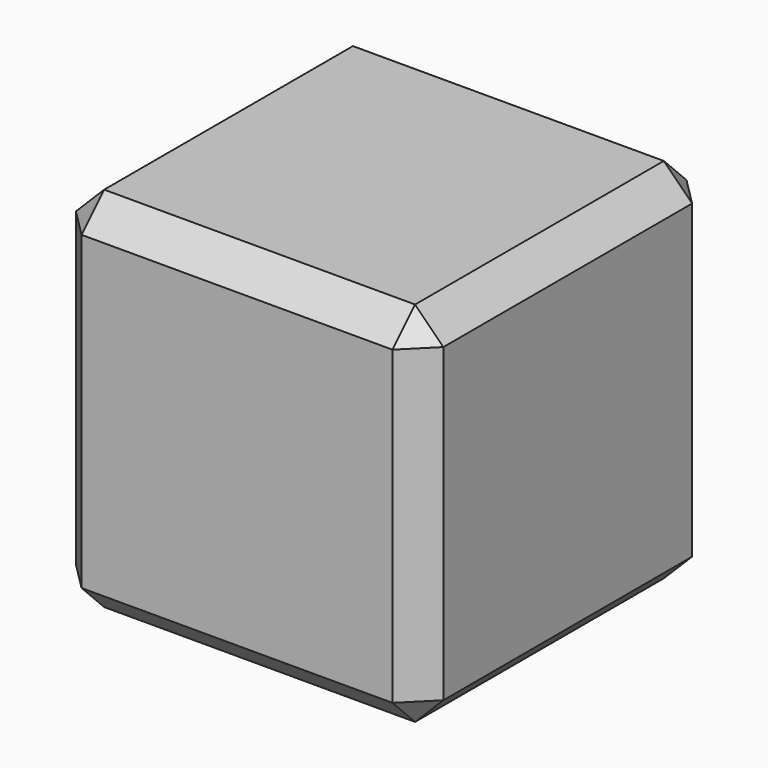
from build123d import *

# Parameters (mm, degrees)
F0_W      = 16.51
F0_H      = 16.51
F1_DEPTH  = 16.51
F2_SIZE   = 1.27
F3_W      = 4.064
F3_H      = 4.064
F4_DEPTH  = 5.08
F5_W      = 4.064
F5_H      = 4.064
F6_DEPTH  = 5.08
F7_W      = 4.064
F7_H      = 4.064
F8_DEPTH  = 5.08
F9_W      = 4.064
F9_H      = 4.064
F10_DEPTH = 5.08
F11_W     = 4.064
F11_H     = 4.064
F12_DEPTH = 5.08
F13_W     = 4.064
F13_H     = 4.064
F14_DEPTH = 5.08
F15_DEPTH = 1.016
F16_DEPTH = 1.016
F17_DEPTH = 1.016
F18_DEPTH = 1.016
F19_DEPTH = 1.016
F20_DEPTH = 1.016


with BuildPart() as f1:
    # F0 (on Top) → F1 (new body)
    with BuildSketch(Plane.XY):
        Rectangle(F0_W, F0_H)
    extrude(amount=F1_DEPTH)

    # F2
    f2_edges = [f1.edges().sort_by_distance(p)[0] for p in [
        (-8.255, 8.255, 8.255),
        (-8.255, -8.255, 8.255),
        (-8.255, 0, 0),
        (-8.255, 0, 16.51),
        (8.255, -8.255, 8.255),
        (0, -8.255, 16.51),
        (0, -8.255, 0),
        (8.255, 8.255, 8.255),
        (0, 8.255, 0),
        (0, 8.255, 16.51),
        (8.255, 0, 0),
        (8.255, 0, 16.51),
    ]]
    chamfer(f2_edges, length=F2_SIZE)

    # F3 (on face) → F4 (cut)
    with BuildSketch(Plane(origin=(0, 8.255, 0), x_dir=(-1, 0, 0), z_dir=(0, 1, 0))):
        with Locations((0, 8.255)):
            Rectangle(F3_W, F3_H)
    extrude(amount=-F4_DEPTH, mode=Mode.SUBTRACT)

    # F5 (on face) → F6 (cut)
    with BuildSketch(Plane.YZ.offset(8.255)):
        with Locations((0, 8.255)):
            Rectangle(F5_W, F5_H)
    extrude(amount=-F6_DEPTH, mode=Mode.SUBTRACT)

    # F7 (on face) → F8 (cut)
    with BuildSketch(Plane(origin=(-8.255, 0, 0), x_dir=(0, -1, 0), z_dir=(-1, 0, 0))):
        with Locations((0, 8.255)):
            Rectangle(F7_W, F7_H)
    extrude(amount=-F8_DEPTH, mode=Mode.SUBTRACT)

    # F9 (on face) → F10 (cut)
    with BuildSketch(Plane.XZ.offset(8.255)):
        with Locations((0, 8.255)):
            Rectangle(F9_W, F9_H)
    extrude(amount=-F10_DEPTH, mode=Mode.SUBTRACT)

    # F11 (on face) → F12 (cut)
    with BuildSketch(Plane.XY.offset(16.51)):
        Rectangle(F11_W, F11_H)
    extrude(amount=-F12_DEPTH, mode=Mode.SUBTRACT)

    # F13 (on face) → F14 (cut)
    with BuildSketch(Plane(origin=(0, 0, 0), x_dir=(1, 0, 0), z_dir=(0, 0, -1))):
        Rectangle(F13_W, F13_H)
    extrude(amount=-F14_DEPTH, mode=Mode.SUBTRACT)

    # F3 (on face) → F15 (join)
    with BuildSketch(Plane(origin=(0, 8.255, 0), x_dir=(-1, 0, 0), z_dir=(0, 1, 0))):
        with Locations((0, 8.255)):
            Rectangle(F3_W, F3_H)
    extrude(amount=-F15_DEPTH)

    # F5 (on face) → F16 (join)
    with BuildSketch(Plane.YZ.offset(8.255)):
        with Locations((0, 8.255)):
            Rectangle(F5_W, F5_H)
    extrude(amount=-F16_DEPTH)

    # F7 (on face) → F17 (join)
    with BuildSketch(Plane(origin=(-8.255, 0, 0), x_dir=(0, -1, 0), z_dir=(-1, 0, 0))):
        with Locations((0, 8.255)):
            Rectangle(F7_W, F7_H)
    extrude(amount=-F17_DEPTH)

    # F9 (on face) → F18 (join)
    with BuildSketch(Plane.XZ.offset(8.255)):
        with Locations((0, 8.255)):
            Rectangle(F9_W, F9_H)
    extrude(amount=-F18_DEPTH)

    # F11 (on face) → F19 (join)
    with BuildSketch(Plane.XY.offset(16.51)):
        Rectangle(F11_W, F11_H)
    extrude(amount=-F19_DEPTH)

    # F13 (on face) → F20 (join)
    with BuildSketch(Plane(origin=(0, 0, 0), x_dir=(1, 0, 0), z_dir=(0, 0, -1))):
        Rectangle(F13_W, F13_H)
    extrude(amount=-F20_DEPTH)


solid = f1.part
